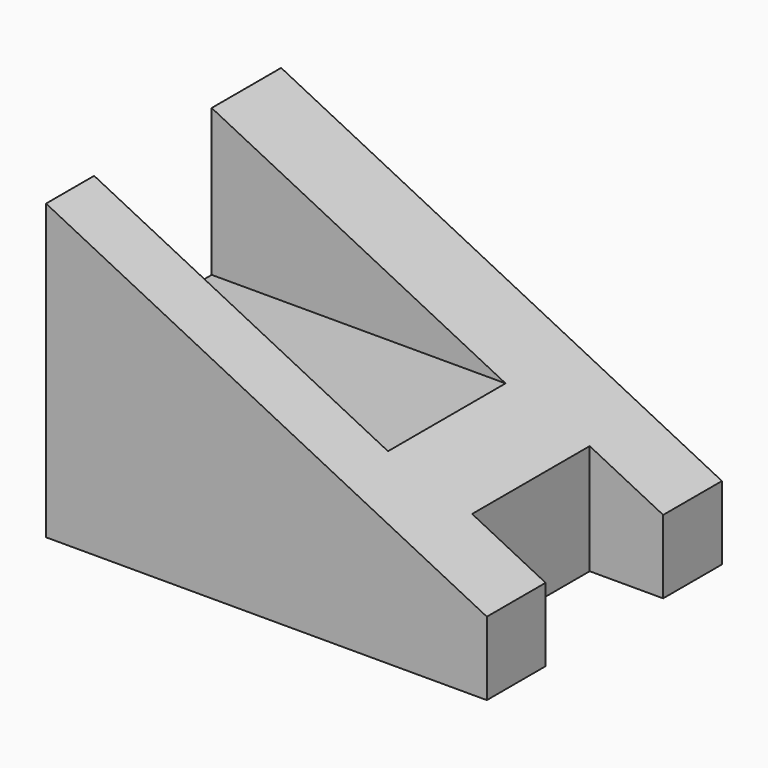
from build123d import *

# Parameters (mm, degrees)
F1_DEPTH = 20
F3_START = 10
F2_W     = 20
F2_H     = 10
F3_DEPTH = 15
F5_DEPTH = 25


with BuildPart() as f1:
    # F0 (on Front) → F1 (new body)
    with BuildSketch(Plane.XZ):
        Polygon((0, 20), (0, 0), (30, 0), (30, 5), align=None)
    extrude(amount=-F1_DEPTH)

    # F2 (on Top) → F3 (cut)
    with BuildSketch(Plane.XY.offset(F3_START)):
        with Locations((10, 9.0900742263)):
            Rectangle(F2_W, F2_H)
    extrude(amount=F3_DEPTH, mode=Mode.SUBTRACT)

    # F4 (on face) → F5 (cut)
    with BuildSketch(Plane(origin=(0, 0, 0), x_dir=(1, 0, 0), z_dir=(0, 0, -1))):
        Polygon((33.2950390875, -15), (30, -5), (25, -5), (25, -15), align=None)
    extrude(amount=-F5_DEPTH, mode=Mode.SUBTRACT)


solid = f1.part
